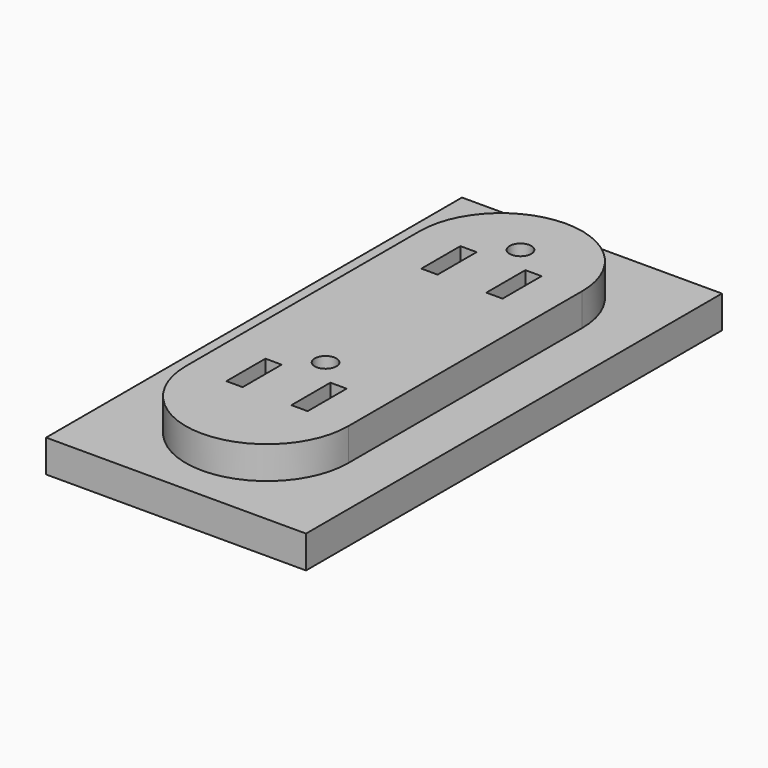
from build123d import *

# Parameters (mm, degrees)
F0_W     = 50.8
F0_H     = 101.6
F0_W_2   = 3.175
F0_H_2   = 9.525
F0_R     = 2.116667
F1_DEPTH = 6.35
F2_DEPTH = 12.7


with BuildPart() as f1:
    # F0 (on Top) → F1 (new body)
    with BuildSketch(Plane.XY):
        with Locations((-2.084287, 9.560628)):
            Rectangle(F0_W, F0_H)
        with BuildLine():
            Line((-17.959287, -19.014372), (-17.959287, 38.135628))
            ThreePointArc((-17.959287, 38.135628), (-2.084287, 54.010628), (13.790713, 38.135628))
            Line((13.790713, 38.135628), (13.790713, -19.014372))
            ThreePointArc((13.790713, -19.014372), (-2.084287, -34.889372), (-17.959287, -19.014372))
        make_face(mode=Mode.SUBTRACT)
        with BuildLine():
            ThreePointArc((13.790713, 38.135628), (-2.084287, 54.010628), (-17.959287, 38.135628))
            Line((-17.959287, 38.135628), (-17.959287, -19.014372))
            ThreePointArc((-17.959287, -19.014372), (-2.084287, -34.889372), (13.790713, -19.014372))
            Line((13.790713, -19.014372), (13.790713, 38.135628))
        make_face()
        with Locations((-8.434287, -14.251872)):
            Rectangle(F0_W_2, F0_H_2, mode=Mode.SUBTRACT)
        with Locations((-2.084287, -4.714172)):
            Circle(F0_R, mode=Mode.SUBTRACT)
        with Locations((4.265713, -14.251872)):
            Rectangle(F0_W_2, F0_H_2, mode=Mode.SUBTRACT)
        with Locations((-8.434287, 33.373128)):
            Rectangle(F0_W_2, F0_H_2, mode=Mode.SUBTRACT)
        with Locations((-2.084287, 42.898128)):
            Circle(F0_R, mode=Mode.SUBTRACT)
        with Locations((4.265713, 33.373128)):
            Rectangle(F0_W_2, F0_H_2, mode=Mode.SUBTRACT)
    extrude(amount=F1_DEPTH)

    # F0 (on Top) → F2 (join)
    with BuildSketch(Plane.XY):
        with BuildLine():
            ThreePointArc((13.790713, 38.135628), (-2.084287, 54.010628), (-17.959287, 38.135628))
            Line((-17.959287, 38.135628), (-17.959287, -19.014372))
            ThreePointArc((-17.959287, -19.014372), (-2.084287, -34.889372), (13.790713, -19.014372))
            Line((13.790713, -19.014372), (13.790713, 38.135628))
        make_face()
        with Locations((-8.434287, -14.251872)):
            Rectangle(F0_W_2, F0_H_2, mode=Mode.SUBTRACT)
        with Locations((-2.084287, -4.714172)):
            Circle(F0_R, mode=Mode.SUBTRACT)
        with Locations((4.265713, -14.251872)):
            Rectangle(F0_W_2, F0_H_2, mode=Mode.SUBTRACT)
        with Locations((-8.434287, 33.373128)):
            Rectangle(F0_W_2, F0_H_2, mode=Mode.SUBTRACT)
        with Locations((-2.084287, 42.898128)):
            Circle(F0_R, mode=Mode.SUBTRACT)
        with Locations((4.265713, 33.373128)):
            Rectangle(F0_W_2, F0_H_2, mode=Mode.SUBTRACT)
    extrude(amount=F2_DEPTH)


solid = f1.part
